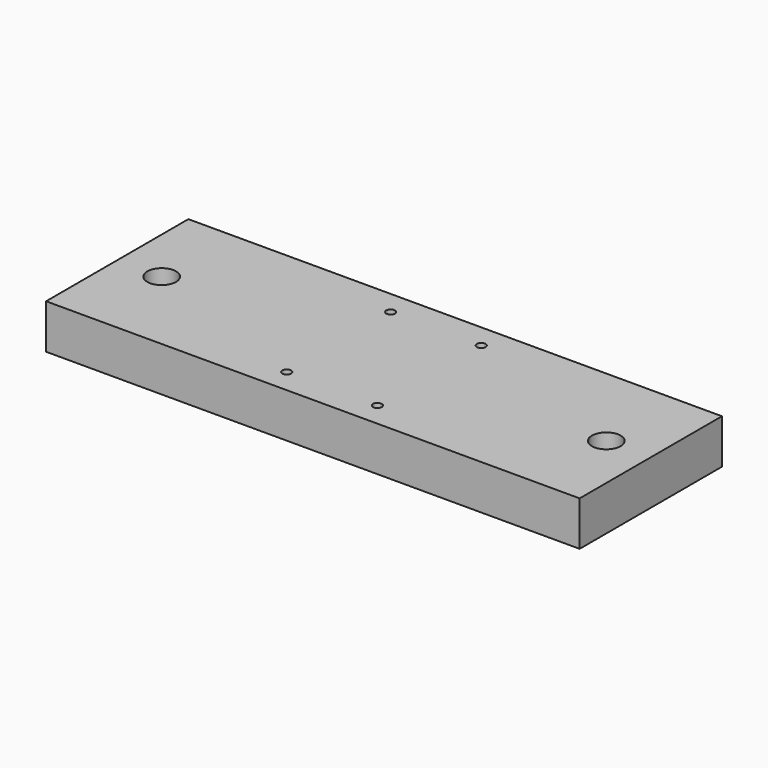
from build123d import *

# Parameters (mm, degrees)
SKETCH_W                  = 152.4
SKETCH_H                  = 50.8
PAD_DEPTH                 = 12.7
SKETCH001_R               = 4.1021
POCKET_DEPTH              = 334.99087
SKETCH002_R               = 1.25
HOLE_DEPTH                = 334.99087
SKETCH002_MIRRORED001_2_R = 1.25
HOLE_MIRRORED001_2_DEPTH  = 334.99087


with BuildPart() as part:
    # Sketch → Pad (new body)
    with BuildSketch(Plane.XY):
        Rectangle(SKETCH_W, SKETCH_H)
    extrude(amount=-PAD_DEPTH)

    # Sketch001 (on Face5 of Pad) → Pocket (cut, through all)
    with BuildSketch(Plane.XY):
        with Locations((-63.5, 0)):
            Circle(SKETCH001_R)
    pocket = extrude(amount=-POCKET_DEPTH, mode=Mode.SUBTRACT)

    # Mirrored: Pocket across YZ
    add(pocket.mirror(Plane.YZ), mode=Mode.SUBTRACT)

    # Sketch002 (on Face4 of Mirrored) → Hole (cut, through all)
    with BuildSketch(Plane.XY):
        with Locations((12.95, 18.55)):
            Circle(SKETCH002_R)
    hole = extrude(amount=-HOLE_DEPTH, mode=Mode.SUBTRACT)

    # Sketch002 Mirrored001 2 → Hole Mirrored001 2 (cut, through all)
    with BuildSketch(Plane(origin=(0, 0, 0), x_dir=(-1, 0, 0), z_dir=(0, 0, -1))):
        with Locations((12.95, 18.55)):
            Circle(SKETCH002_MIRRORED001_2_R)
    hole_mirrored001_2 = extrude(amount=HOLE_MIRRORED001_2_DEPTH, mode=Mode.SUBTRACT)

    # Mirrored002: Hole, Hole Mirrored001 2 across XZ
    add(hole.mirror(Plane.XZ), mode=Mode.SUBTRACT)
    add(hole_mirrored001_2.mirror(Plane.XZ), mode=Mode.SUBTRACT)


solid = part.part
